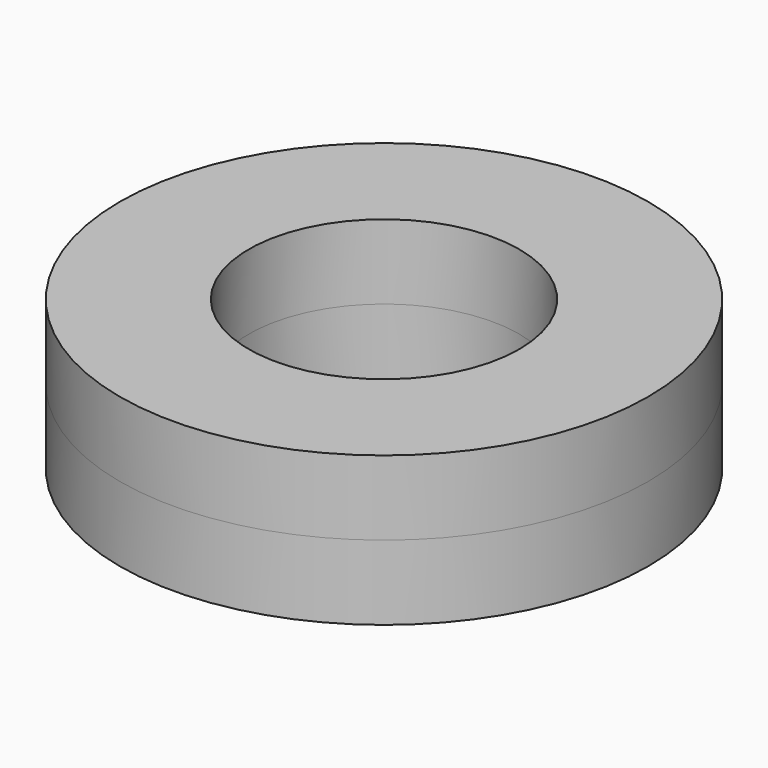
from build123d import *

# Parameters (mm, degrees)
F0_R     = 10.25
F0_R_2   = 5.25
F2_DEPTH = 2.8956
F3_R     = 10.25
F3_R_2   = 5.25
F4_DEPTH = 2.8956
F1_R     = 9.575
F1_R_2   = 5.925
F5_DEPTH = 2.413


with BuildPart() as f2:
    # F0 (on Top) → F2 (new body)
    with BuildSketch(Plane.XY):
        Circle(F0_R)
        Circle(F0_R_2, mode=Mode.SUBTRACT)
    extrude(amount=F2_DEPTH)


with BuildPart() as f4:
    # F3 (on Top) → F4 (new body)
    with BuildSketch(Plane.XY):
        Circle(F3_R)
        Circle(F3_R_2, mode=Mode.SUBTRACT)
    extrude(amount=-F4_DEPTH)


with BuildPart() as f5_tool:
    # F1 (on Top) → F5 (new body, symmetric)
    with BuildSketch(Plane.XY):
        Circle(F1_R)
        Circle(F1_R_2, mode=Mode.SUBTRACT)
    extrude(amount=F5_DEPTH, both=True)


with BuildPart() as f2_1:
    add(f2.part)

    # F5: cut by f5_tool
    add(f5_tool.part, mode=Mode.SUBTRACT)


with BuildPart() as f4_1:
    add(f4.part)

    # F5: cut by f5_tool
    add(f5_tool.part, mode=Mode.SUBTRACT)


solid = Compound([f2_1.part, f4_1.part])
